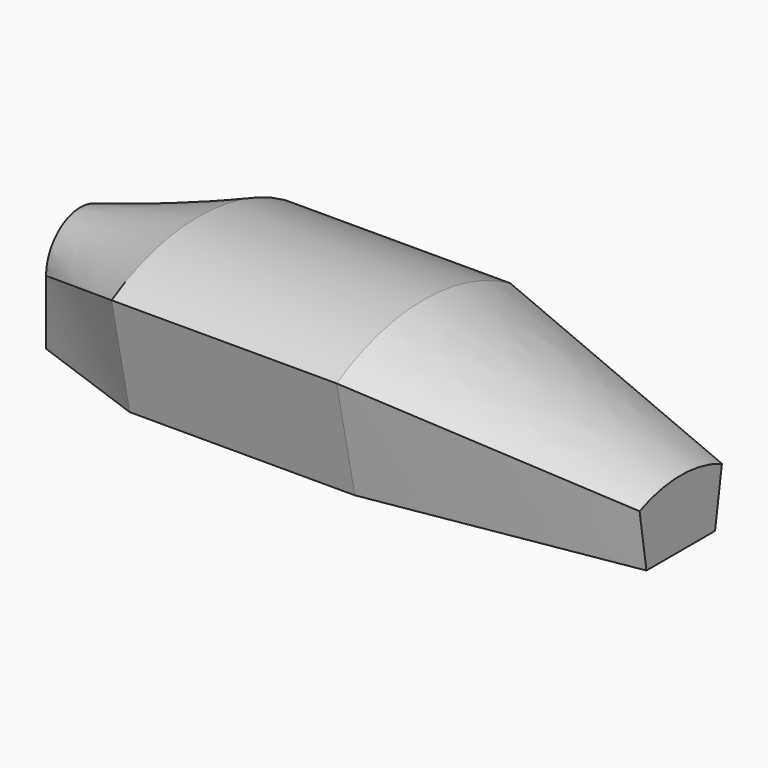
from build123d import *

# Parameters (mm, degrees)
F1_DEPTH      = 10
F1_DEPTH_BACK = 42.5


with BuildPart() as f1:
    # F0 (on Right) → F1 (new body, two sides)
    with BuildSketch(Plane.YZ) as f1_sk:
        with BuildLine():
            ThreePointArc((25.3, 25.1266738806), (0, 32), (-25.3, 25.1266738806))
            Line((-25.3, 25.1266738806), (-20, 0))
            Line((-20, 0), (20, 0))
            Line((20, 0), (25.3, 25.1266738806))
        make_face()
    extrude(amount=F1_DEPTH)
    extrude(f1_sk.sketch, amount=-F1_DEPTH_BACK)

    # F1_face (on face) → F4 section 0
    with BuildSketch(Plane(origin=(10, 0, 15.5949865173), x_dir=(0, 1, 0), z_dir=(1, 0, 0))):
        with BuildLine():
            ThreePointArc((25.3, 9.5316873632), (0, 16.4050134827), (-25.3, 9.5316873632))
            Line((-25.3, 9.5316873632), (-20, -15.5949865173))
            Line((-20, -15.5949865173), (20, -15.5949865173))
            Line((20, -15.5949865173), (25.3, 9.5316873632))
        make_face()
    # F3 (on offset) → F4 section 1
    with BuildSketch(Plane.YZ.offset(70)):
        with BuildLine():
            ThreePointArc((12, 12.9954541697), (0, 15.5), (-12, 12.9954541697))
            Line((-12, 12.9954541697), (-10, 0))
            Line((-10, 0), (10, 0))
            Line((10, 0), (12, 12.9954541697))
        make_face()
    loft()

    # F1_face1 (on face) → F7 section 0
    with BuildSketch(Plane(origin=(-42.5, 0, 15.5949865173), x_dir=(0, 1, 0), z_dir=(-1, 0, 0))):
        with BuildLine():
            ThreePointArc((-25.3, -9.5316873632), (0, -16.4050134827), (25.3, -9.5316873632))
            Line((25.3, -9.5316873632), (20, 15.5949865173))
            Line((20, 15.5949865173), (-20, 15.5949865173))
            Line((-20, 15.5949865173), (-25.3, -9.5316873632))
        make_face()
    # F6 (on offset) → F7 section 1
    with BuildSketch(Plane.YZ.offset(-70)):
        with BuildLine():
            ThreePointArc((10, 15), (0, 25), (-10, 15))
            Line((-10, 15), (-10, 0))
            Line((-10, 0), (10, 0))
            Line((10, 0), (10, 15))
        make_face()
    loft()


solid = f1.part
